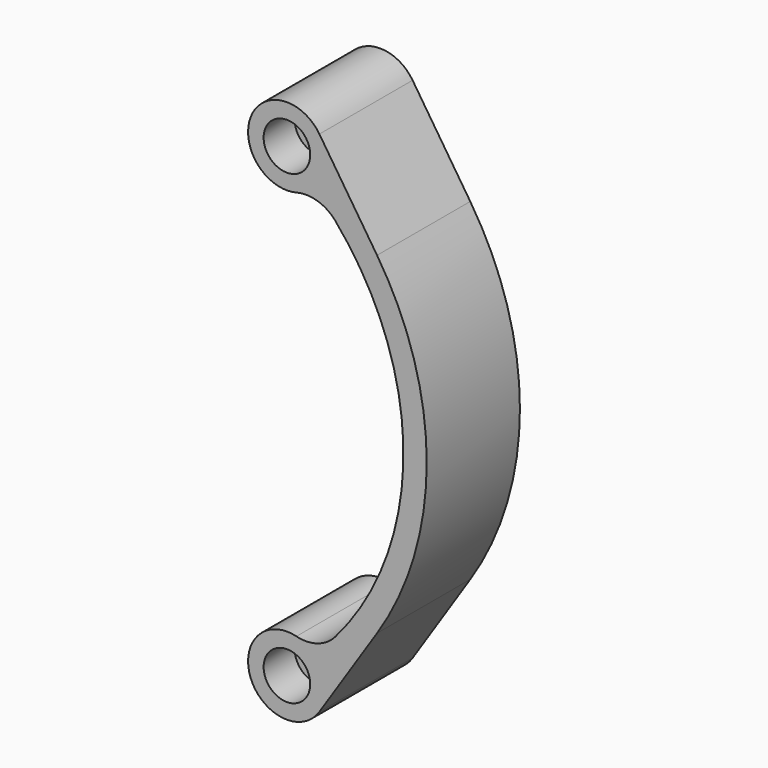
from build123d import *

# Parameters (mm, degrees)
SKETCH_R     = 1.6
PAD_DEPTH    = 15
FILLET_R     = 5
SKETCH001_R  = 3
POCKET_DEPTH = 5


with BuildPart() as part:
    # Sketch → Pad (new body)
    with BuildSketch(Plane.XZ):
        with BuildLine():
            ThreePointArc((4.181539, 2.741301), (-4.970119, 0.54582), (3.486952, -3.583457))
            ThreePointArc((3.486952, -56.416543), (15, -30), (3.486952, -3.583457))
            ThreePointArc((3.486952, -56.416543), (-4.970119, -60.54582), (4.181539, -62.741301))
            Line((4.181539, -62.741301), (11.605736, -51.416543))
            ThreePointArc((11.605736, -51.416543), (18, -30), (11.605736, -8.583457))
            Line((4.181539, 2.741301), (11.605736, -8.583457))
        make_face()
        Circle(SKETCH_R, mode=Mode.SUBTRACT)
        with Locations((0, -60)):
            Circle(SKETCH_R, mode=Mode.SUBTRACT)
    extrude(amount=PAD_DEPTH)

    # Fillet
    fillet_edges = [part.edges().sort_by_distance(p)[0] for p in [
        (3.486952, -7.5, -3.583457),
        (3.486952, -7.5, -56.416543),
    ]]
    fillet(fillet_edges, radius=FILLET_R)

    # Sketch001 (on Face5 of Fillet) → Pocket (cut)
    with BuildSketch(Plane.XZ.offset(15)):
        Circle(SKETCH001_R)
        with Locations((0, -60)):
            Circle(SKETCH001_R)
    extrude(amount=-POCKET_DEPTH, mode=Mode.SUBTRACT)


solid = part.part
